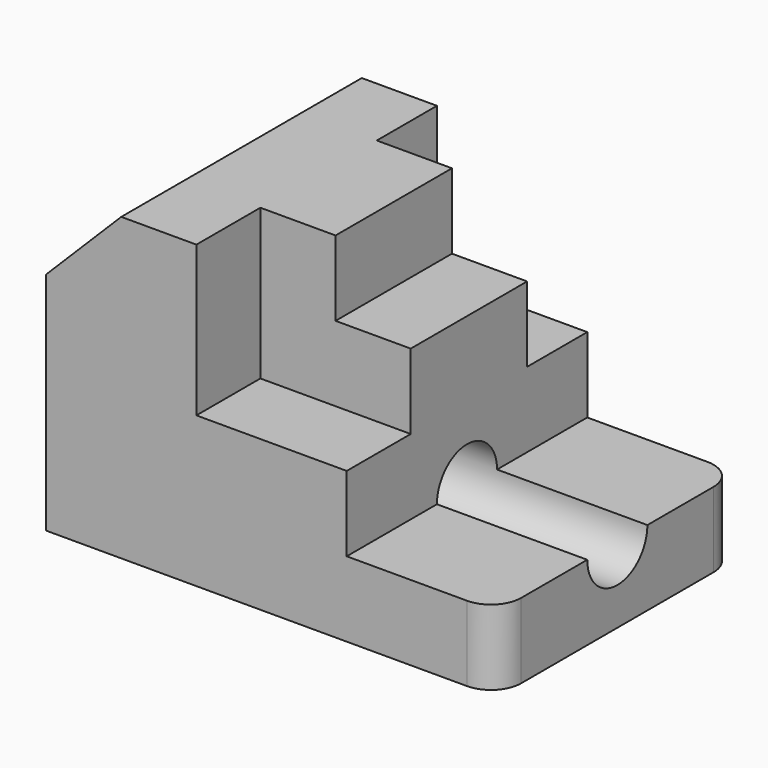
from build123d import *

# Parameters (mm, degrees)
F1_DEPTH = 25.4
F2_W     = 12.7
F2_H     = 12.7
F2_H_2   = 13.5122093648
F3_DEPTH = 25.4
F4_R     = 6.35
F5_DEPTH = 76.201
F6_R     = 5.08


with BuildPart() as f1:
    # F0 (on Front) → F1 (new body, symmetric)
    with BuildSketch(Plane.XZ):
        Polygon((0, 38.1), (0, 0), (76.2, 0), (76.2, 12.7), (50.8, 12.7), (50.8, 25.4), (25.4, 25.4), (25.4, 50.8), (12.7, 50.8), align=None)
        Polygon((38.1, 50.8), (25.4, 50.8), (25.4, 25.4), (50.8, 25.4), (50.8, 38.1), (38.1, 38.1), align=None)
    extrude(amount=F1_DEPTH, both=True)

    # F2 (on face) → F3 (cut)
    with BuildSketch(Plane.XY.offset(50.8)):
        with Locations((44.45, 19.05)):
            Rectangle(F2_W, F2_H)
        with Locations((31.75, 19.05)):
            Rectangle(F2_W, F2_H)
        with Locations((31.75, -18.6438953176)):
            Rectangle(F2_W, F2_H_2)
        with Locations((44.45, -18.6438953176)):
            Rectangle(F2_W, F2_H_2)
    extrude(amount=-F3_DEPTH, mode=Mode.SUBTRACT)

    # F4 (on Right) → F5 (cut, through all)
    with BuildSketch(Plane.YZ):
        with Locations((0, 12.7)):
            Circle(F4_R)
    extrude(amount=F5_DEPTH, mode=Mode.SUBTRACT)

    # F6
    f6_edges = [f1.edges().sort_by_distance(p)[0] for p in [
        (76.2, -25.4, 6.35),
        (76.2, 25.4, 6.35),
    ]]
    fillet(f6_edges, radius=F6_R)


solid = f1.part
